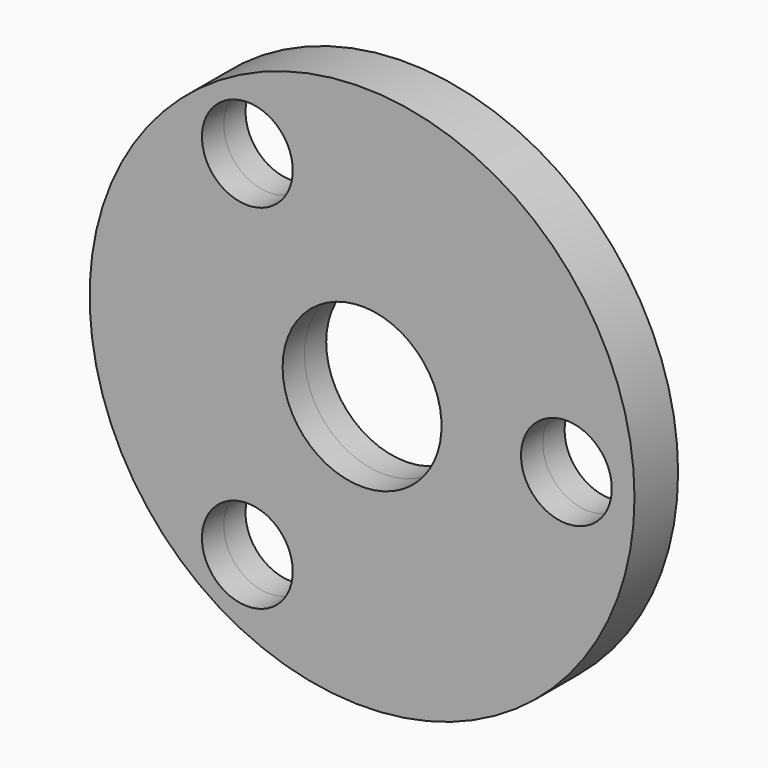
from build123d import *

# Parameters (mm, degrees)
F0_R     = 10
F1_DEPTH = 6


with BuildPart() as f1:
    # F0 (on Front) → F1 (new body, symmetric)
    with BuildSketch(Plane.XZ):
        with BuildLine():
            ThreePointArc((-60, 0), (0, -60), (60, 0))
            Line((60, 0), (55, 0))
            ThreePointArc((55, 0), (45, -10), (35, 0))
            Line((35, 0), (33.2484766841, 0))
            Line((33.2484766841, 0), (23.3858909756, 0))
            Line((23.3858909756, 0), (17.5, 0))
            ThreePointArc((17.5, 0), (0, -17.5), (-17.5, 0))
            Line((-17.5, 0), (-60, 0))
        make_face()
        with Locations((-25.2673812211, -38.8836935163)):
            Circle(F0_R, mode=Mode.SUBTRACT)
        with BuildLine():
            Line((55, 0), (60, 0))
            ThreePointArc((60, 0), (0, 60), (-60, 0))
            Line((-60, 0), (-17.5, 0))
            ThreePointArc((-17.5, 0), (0, 17.5), (17.5, 0))
            Line((17.5, 0), (23.3858909756, 0))
            Line((23.3858909756, 0), (33.2484766841, 0))
            Line((33.2484766841, 0), (35, 0))
            ThreePointArc((35, 0), (45, 10), (55, 0))
        make_face()
        with Locations((-25.2673812211, 38.8836935163)):
            Circle(F0_R, mode=Mode.SUBTRACT)
    extrude(amount=F1_DEPTH, both=True)


solid = f1.part
